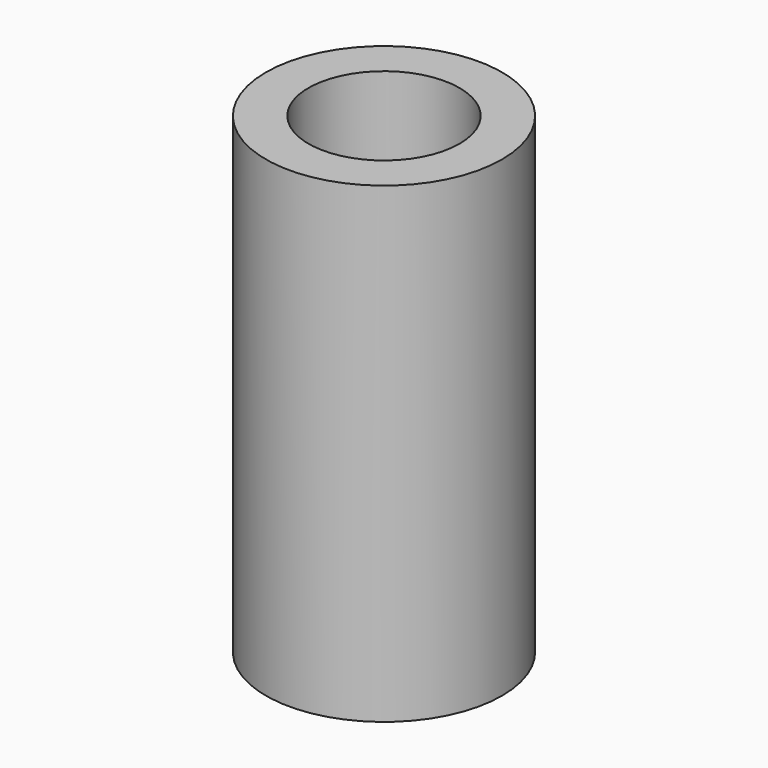
from build123d import *

# Parameters (mm, degrees)
SKETCH055_R  = 1.6
PAD021_DEPTH = 10
SKETCH054_R  = 2.5
PAD020_DEPTH = 10


with BuildPart() as pad021:
    # Sketch055 → Pad021 (new body)
    with BuildSketch(Plane.XY.offset(10)):
        Circle(SKETCH055_R)
    extrude(amount=-PAD021_DEPTH)


with BuildPart() as cut038:
    # Sketch054 → Pad020 (new body)
    with BuildSketch(Plane.XY):
        Circle(SKETCH054_R)
    extrude(amount=PAD020_DEPTH)

    # Cut038: cut Pad021
    add(pad021.part, mode=Mode.SUBTRACT)


with BuildPart() as cut038_1:
    # Cut038 placement: moved
    add(cut038.part.moved(Location((6.5, -106.5, -88))))


solid = cut038_1.part
